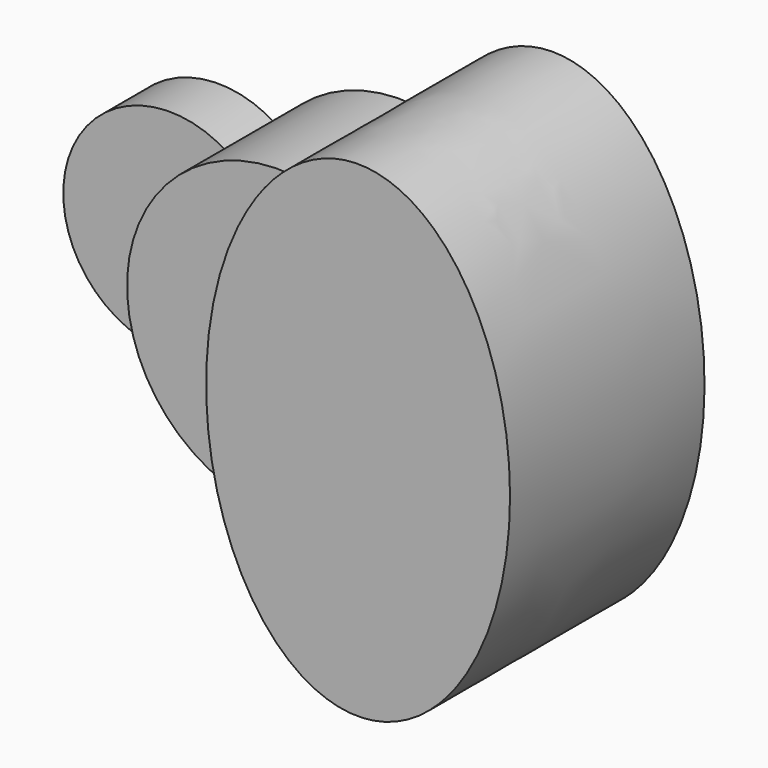
from build123d import *

# Parameters (mm, degrees)
F1_DEPTH = 25.4
F2_DEPTH = 63.5
F3_DEPTH = 101.6


with BuildPart() as f1:
    # F0 (on Front) → F1 (new body)
    with BuildSketch(Plane.XZ):
        with BuildLine():
            ThreePointArc((-51.59375, -37.0180356169), (-60.4501990278, -19.4428248333), (-63.5, 0))
            ThreePointArc((-63.5, 0), (-60.4501990278, 19.4428248333), (-51.59375, 37.0180356169))
            ThreePointArc((-51.59375, 37.0180356169), (-120.65, 0), (-51.59375, -37.0180356169))
        make_face()
    extrude(amount=F1_DEPTH)

    # F0 (on Front) → F2 (join)
    with BuildSketch(Plane.XZ):
        with BuildLine():
            Line((-63.5, 0), (-31.75, 0))
            ThreePointArc((-31.75, 0), (-37.0237934934, 21.0006510316), (-51.59375, 37.0180356169))
            ThreePointArc((-51.59375, 37.0180356169), (-60.4501990278, 19.4428248333), (-63.5, 0))
        make_face()
        with BuildLine():
            ThreePointArc((-51.59375, -37.0180356169), (-37.0237934934, -21.0006510316), (-31.75, 0))
            Line((-31.75, 0), (-63.5, 0))
            ThreePointArc((-63.5, 0), (-60.4501990278, -19.4428248333), (-51.59375, -37.0180356169))
        make_face()
        with BuildLine():
            add(Edge.make_bspline(
                [(0, 0), (0, -34.6669399309), (13.2439655959, -62.1035214404)],
                knots=[1.5707963268, 1.5707963268, 1.5707963268, 2.2284418454, 2.2284418454, 2.2284418454], degree=2, weights=[1, 0.9464231645, 1]))
            Line((0, 0), (-31.75, 0))
            ThreePointArc((-31.75, 0), (-37.0237934934, -21.0006510316), (-51.59375, -37.0180356169))
            ThreePointArc((-51.59375, -37.0180356169), (-22.9128106244, -59.2220660674), (13.2439655959, -62.1035214404))
        make_face()
        with BuildLine():
            Line((-31.75, 0), (0, 0))
            add(Edge.make_bspline(
                [(13.2439655959, 62.1035214404), (0, 34.6669399309), (0, 0)],
                knots=[0.9131508081, 0.9131508081, 0.9131508081, 1.5707963268, 1.5707963268, 1.5707963268], degree=2, weights=[1, 0.9464231645, 1]))
            ThreePointArc((13.2439655959, 62.1035214404), (-22.9128106244, 59.2220660674), (-51.59375, 37.0180356169))
            ThreePointArc((-51.59375, 37.0180356169), (-37.0237934934, 21.0006510316), (-31.75, 0))
        make_face()
    extrude(amount=F2_DEPTH)

    # F0 (on Front) → F3 (join)
    with BuildSketch(Plane.XZ):
        with BuildLine():
            ThreePointArc((63.5, 0), (49.3621404284, -39.9453262889), (13.2439655959, -62.1035214404))
            add(Edge.make_bspline(
                [(13.2439655959, -62.1035214404), (75.5537087854, -191.1861844445), (120.4955415237, -44.7930922222), (165.437374262, 101.6), (63.5, 101.6)],
                knots=[2.2284418454, 2.2284418454, 2.2284418454, 4.2558135763, 4.2558135763, 6.2831853072, 6.2831853072, 6.2831853072], degree=2, weights=[1, 0.5287358074, 1, 0.5287358074, 1]))
            Line((63.5, 101.6), (63.5, 0))
        make_face()
        with BuildLine():
            add(Edge.make_bspline(
                [(13.2439655959, 62.1035214404), (0, 34.6669399309), (0, 0)],
                knots=[0.9131508081, 0.9131508081, 0.9131508081, 1.5707963268, 1.5707963268, 1.5707963268], degree=2, weights=[1, 0.9464231645, 1]))
            add(Edge.make_bspline(
                [(0, 0), (0, -34.6669399309), (13.2439655959, -62.1035214404)],
                knots=[1.5707963268, 1.5707963268, 1.5707963268, 2.2284418454, 2.2284418454, 2.2284418454], degree=2, weights=[1, 0.9464231645, 1]))
            ThreePointArc((13.2439655959, -62.1035214404), (49.3621404284, -39.9453262889), (63.5, 0))
            ThreePointArc((63.5, 0), (49.3621404284, 39.9453262889), (13.2439655959, 62.1035214404))
        make_face()
        with BuildLine():
            add(Edge.make_bspline(
                [(63.5, 101.6), (32.3093875408, 101.6), (13.2439655959, 62.1035214404)],
                knots=[0, 0, 0, 0.9131508081, 0.9131508081, 0.9131508081], degree=2, weights=[1, 0.8975675831, 1]))
            ThreePointArc((13.2439655959, 62.1035214404), (49.3621404284, 39.9453262889), (63.5, 0))
            Line((63.5, 0), (63.5, 101.6))
        make_face()
    extrude(amount=F3_DEPTH)


solid = f1.part
